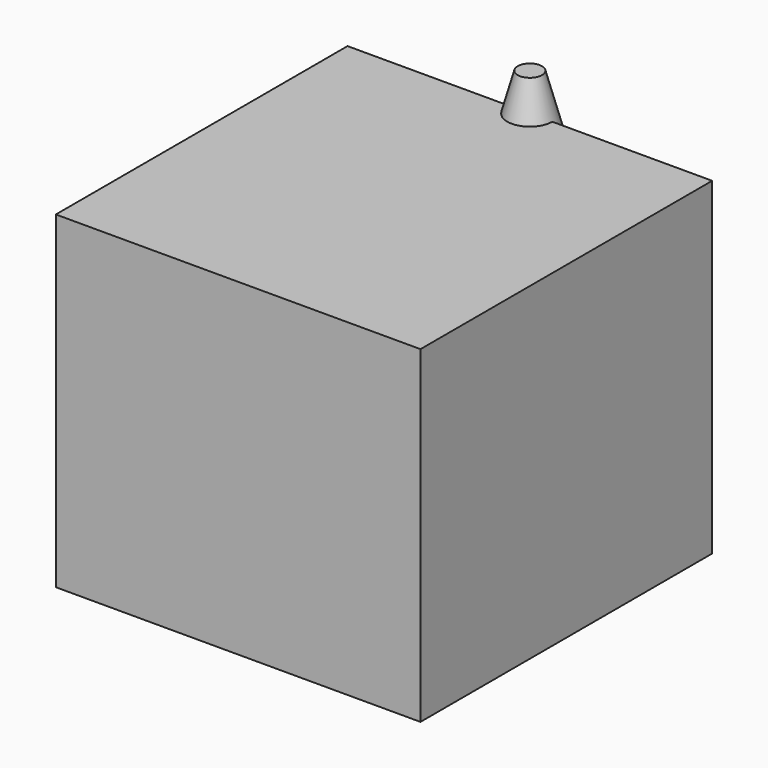
from build123d import *

# Parameters (mm, degrees)
F2_W     = 150
F2_H     = 135
F3_DEPTH = 150


with BuildPart() as f1:
    # F0 (on Front) → F1 (revolve)
    with BuildSketch(Plane.XZ):
        Polygon((5, 83), (0, 83), (0, 0), (0, -52), (39.75, -52), (25, 0), (25, 5), (26.5, 5), align=None)
    revolve(axis=Axis((0, 0, 41.5), (0, 0, -1)))


with BuildPart() as f3:
    # F2 (on Front) → F3 (new body)
    with BuildSketch(Plane.XZ):
        Rectangle(F2_W, F2_H)
    extrude(amount=F3_DEPTH)


solid = Compound([f1.part, f3.part])
